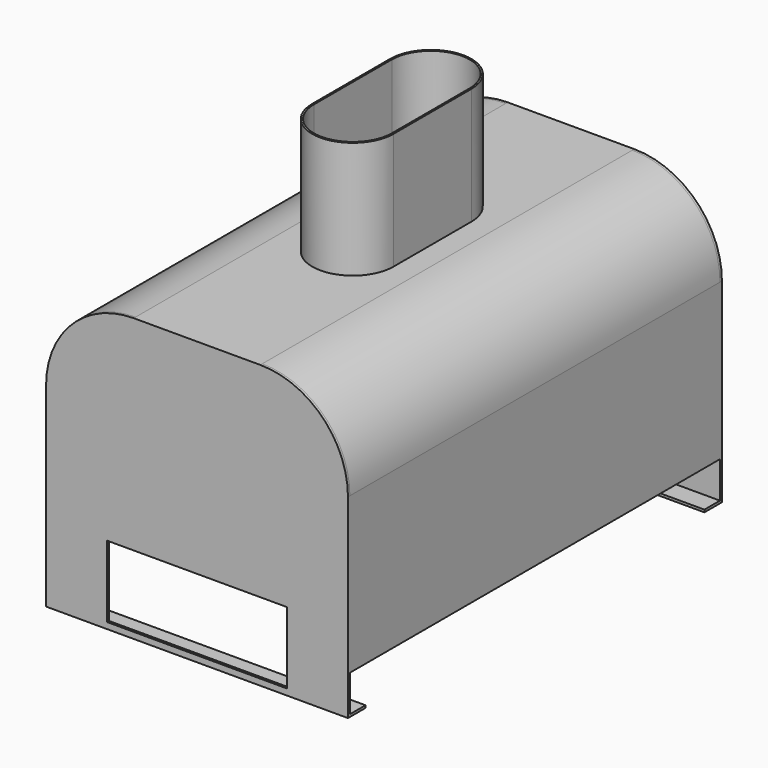
from build123d import *

# Parameters (mm, degrees)
F0_W      = 98.425
F0_H      = 92.075
F0_W_2    = 58.7375
F0_H_2    = 23.368
F1_DEPTH  = 0.79375
F2_R      = 28.575
F3_R      = 19.05
F3_R_2    = 18.25625
F4_DEPTH  = 150.8125
F5_W      = 98.425
F5_H      = 92.075
F6_DEPTH  = 0.79375
F7_R      = 28.575
F8_W      = 98.425
F8_H      = 0.79375
F9_DEPTH  = 6.35
F10_W     = 98.425
F10_H     = 0.79375
F11_DEPTH = 6.35
F13_DEPTH = 151.5745
F15_DEPTH = 2.54
F17_DEPTH = 38.1


with BuildPart() as f1:
    # F0 (on Front) → F1 (new body)
    with BuildSketch(Plane.XZ):
        with Locations((49.2125, 46.0375)):
            Rectangle(F0_W, F0_H)
        with Locations((49.2125, 13.716)):
            Rectangle(F0_W_2, F0_H_2, mode=Mode.SUBTRACT)
    extrude(amount=F1_DEPTH)

    # F2
    f2_edges = [f1.edges().sort_by_distance(p)[0] for p in [
        (0, -0.396875, 92.075),
        (98.425, -0.396875, 92.075),
    ]]
    fillet(f2_edges, radius=F2_R)

    # F3 (on face) → F4 (join)
    with BuildSketch(Plane(origin=(0, 0, 0), x_dir=(-1, 0, 0), z_dir=(0, 1, 0))):
        with Locations((-70.866, 63.754)):
            Circle(F3_R)
        with Locations((-70.866, 63.754)):
            Circle(F3_R_2, mode=Mode.SUBTRACT)
        with Locations((-27.94, 63.754)):
            Circle(F3_R)
        with Locations((-27.94, 63.754)):
            Circle(F3_R_2, mode=Mode.SUBTRACT)
    extrude(amount=F4_DEPTH)

    # F5 (on face) → F6 (join)
    with BuildSketch(Plane(origin=(0, 150.8125, 0), x_dir=(-1, 0, 0), z_dir=(0, 1, 0))):
        with Locations((-49.2125, 46.0375)):
            Rectangle(F5_W, F5_H)
    extrude(amount=F6_DEPTH)

    # F7
    f7_edges = [f1.edges().sort_by_distance(p)[0] for p in [
        (0, 151.209375, 92.075),
        (98.425, 151.209375, 92.075),
    ]]
    fillet(f7_edges, radius=F7_R)

    # F8 (on face) → F9 (join)
    with BuildSketch(Plane(origin=(0, 0, 0), x_dir=(-1, 0, 0), z_dir=(0, 1, 0))):
        with Locations((-49.2125, 0.396875)):
            Rectangle(F8_W, F8_H)
    extrude(amount=F9_DEPTH)

    # F10 (on face) → F11 (join)
    with BuildSketch(Plane.XZ.offset(-150.8125)):
        with Locations((49.2125, 0.396875)):
            Rectangle(F10_W, F10_H)
    extrude(amount=F11_DEPTH)

    # F12 (on face) → F13 (join)
    with BuildSketch(Plane(origin=(0, 0, 0), x_dir=(-1, 0, 0), z_dir=(0, 1, 0))):
        with BuildLine():
            Line((-98.425, 63.5), (-98.425, 12.7))
            Line((-98.425, 12.7), (-97.63125, 12.7))
            Line((-97.63125, 12.7), (-97.63125, 56.811744))
            ThreePointArc((-97.63125, 56.811744), (-98.225869, 60.132404), (-98.425, 63.5))
        make_face()
        with BuildLine():
            ThreePointArc((-69.85, 92.075), (-90.055576, 83.705576), (-98.425, 63.5))
            ThreePointArc((-98.425, 63.5), (-98.225869, 60.132404), (-97.63125, 56.811744))
            Line((-97.63125, 56.811744), (-97.63125, 63.5))
            ThreePointArc((-97.63125, 63.5), (-89.49431, 83.14431), (-69.85, 91.28125))
            Line((-69.85, 91.28125), (-28.575, 91.28125))
            ThreePointArc((-28.575, 91.28125), (-8.93069, 83.14431), (-0.79375, 63.5))
            Line((-0.79375, 63.5), (-0.79375, 12.7))
            Line((-0.79375, 12.7), (0, 12.7))
            Line((0, 12.7), (0, 63.5))
            ThreePointArc((0, 63.5), (-8.369424, 83.705576), (-28.575, 92.075))
            Line((-28.575, 92.075), (-69.85, 92.075))
        make_face()
    extrude(amount=F13_DEPTH)

    # F14 (on face) → F15 (cut)
    with BuildSketch(Plane.XY.offset(92.075)):
        with BuildLine():
            Line((61.9125, 62.70625), (61.9125, 94.45625))
            ThreePointArc((61.9125, 94.45625), (49.2125, 107.15625), (36.5125, 94.45625))
            Line((36.5125, 94.45625), (36.5125, 62.70625))
            ThreePointArc((36.5125, 62.70625), (49.2125, 50.00625), (61.9125, 62.70625))
        make_face()
    extrude(amount=-F15_DEPTH, mode=Mode.SUBTRACT)

    # F16 (on face) → F17 (join)
    with BuildSketch(Plane.XY.offset(92.075)):
        with BuildLine():
            Line((35.9537, 94.45625), (35.9537, 62.70625))
            ThreePointArc((35.9537, 62.70625), (49.2125, 49.44745), (62.4713, 62.70625))
            Line((62.4713, 62.70625), (62.4713, 94.45625))
            ThreePointArc((62.4713, 94.45625), (49.2125, 107.71505), (35.9537, 94.45625))
        make_face()
        with BuildLine():
            ThreePointArc((36.5125, 94.45625), (49.2125, 107.15625), (61.9125, 94.45625))
            Line((61.9125, 94.45625), (61.9125, 62.70625))
            ThreePointArc((61.9125, 62.70625), (49.2125, 50.00625), (36.5125, 62.70625))
            Line((36.5125, 62.70625), (36.5125, 94.45625))
        make_face(mode=Mode.SUBTRACT)
    extrude(amount=F17_DEPTH)


solid = f1.part
